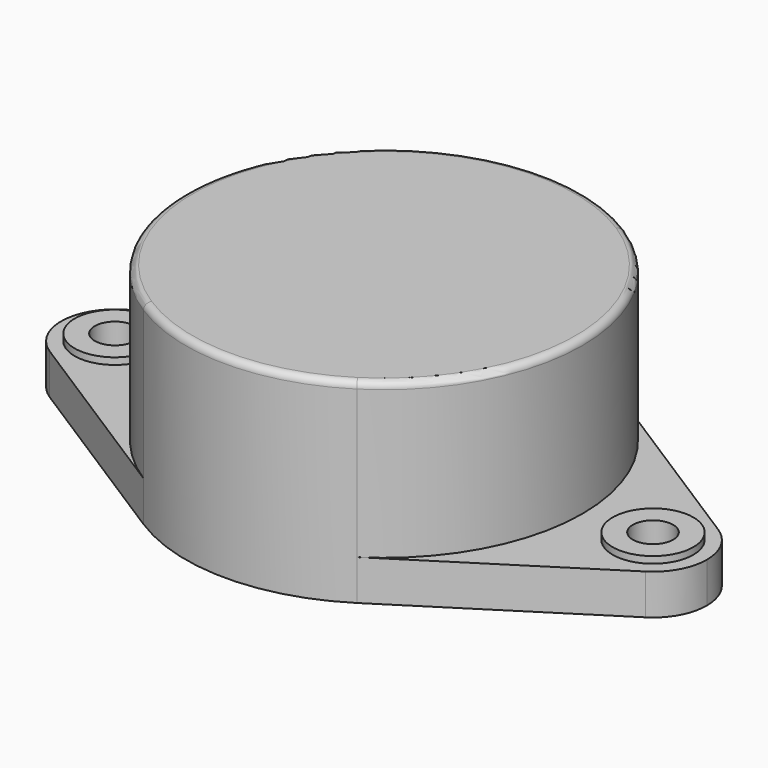
from build123d import *

# Parameters (mm, degrees)
F0_R     = 3
F1_DEPTH = 3
F3_DEPTH = 11.5
F4_R     = 0.5
F6_DEPTH = 3.5
F7_D     = 3


with BuildPart() as f1:
    # F0 (on Top) → F1 (new body)
    with BuildSketch(Plane.XY):
        with BuildLine():
            ThreePointArc((-53.0873338103, 3.9548860426), (-48.0828963467, 9.2999784643), (-46.2654588103, 16.393026337))
            ThreePointArc((-46.2654588103, 16.393026337), (-48.0828963467, 23.4860742098), (-53.0873338103, 28.8311666315))
            ThreePointArc((-53.0873338103, 28.8311666315), (-61.0154588103, 31.143026337), (-68.9435838103, 28.8311666315))
            ThreePointArc((-68.9435838103, 28.8311666315), (-75.7654588103, 16.393026337), (-68.9435838103, 3.9548860426))
            ThreePointArc((-68.9435838103, 3.9548860426), (-61.0154588103, 1.643026337), (-53.0873338103, 3.9548860426))
        make_face()
        with BuildLine():
            ThreePointArc((-68.9435838103, 3.9548860426), (-75.7654588103, 16.393026337), (-68.9435838103, 28.8311666315))
            Line((-68.9435838103, 28.8311666315), (-83.1654588103, 19.7660813321))
            ThreePointArc((-83.1654588103, 19.7660813321), (-79.0919204042, 19.9001619204), (-77.0154588103, 16.393026337))
            ThreePointArc((-77.0154588103, 16.393026337), (-79.0919204042, 12.8858907537), (-83.1654588103, 13.0199713419))
            Line((-83.1654588103, 13.0199713419), (-68.9435838103, 3.9548860426))
        make_face()
        with BuildLine():
            ThreePointArc((-53.0873338103, 28.8311666315), (-48.0828963467, 23.4860742098), (-46.2654588103, 16.393026337))
            ThreePointArc((-46.2654588103, 16.393026337), (-48.0828963467, 9.2999784643), (-53.0873338103, 3.9548860426))
            Line((-53.0873338103, 3.9548860426), (-38.8654588103, 13.0199713419))
            ThreePointArc((-38.8654588103, 13.0199713419), (-45.0154588103, 16.393026337), (-38.8654588103, 19.7660813321))
            Line((-38.8654588103, 19.7660813321), (-53.0873338103, 28.8311666315))
        make_face()
        with BuildLine():
            ThreePointArc((-37.0154588103, 16.393026337), (-37.508323227, 18.3165647432), (-38.8654588103, 19.7660813321))
            ThreePointArc((-38.8654588103, 19.7660813321), (-45.0154588103, 16.393026337), (-38.8654588103, 13.0199713419))
            ThreePointArc((-38.8654588103, 13.0199713419), (-37.508323227, 14.4694879309), (-37.0154588103, 16.393026337))
        make_face()
        with Locations((-41.0154588103, 16.393026337)):
            Circle(F0_R, mode=Mode.SUBTRACT)
        with BuildLine():
            ThreePointArc((-77.0154588103, 16.393026337), (-79.0919204042, 19.9001619204), (-83.1654588103, 19.7660813321))
            ThreePointArc((-83.1654588103, 19.7660813321), (-85.0154588103, 16.393026337), (-83.1654588103, 13.0199713419))
            ThreePointArc((-83.1654588103, 13.0199713419), (-79.0919204042, 12.8858907537), (-77.0154588103, 16.393026337))
        make_face()
        with Locations((-81.0154588103, 16.393026337)):
            Circle(F0_R, mode=Mode.SUBTRACT)
    extrude(amount=F1_DEPTH)

    # F2 (on face) → F3 (join)
    with BuildSketch(Plane.XY.offset(3)):
        with BuildLine():
            ThreePointArc((-53.0873338103, 3.9548860426), (-48.0828963467, 9.2999784643), (-46.2654588103, 16.393026337))
            ThreePointArc((-46.2654588103, 16.393026337), (-48.0828963467, 23.4860742098), (-53.0873338103, 28.8311666315))
            ThreePointArc((-53.0873338103, 28.8311666315), (-61.0154588103, 31.143026337), (-68.9435838103, 28.8311666315))
            ThreePointArc((-68.9435838103, 28.8311666315), (-75.7654588103, 16.393026337), (-68.9435838103, 3.9548860426))
            ThreePointArc((-68.9435838103, 3.9548860426), (-61.0154588103, 1.643026337), (-53.0873338103, 3.9548860426))
        make_face()
    extrude(amount=F3_DEPTH)

    # F4
    f4_edges = [f1.edges().sort_by_distance(p)[0] for p in [
        (-53.087334, 28.831167, 14.5),
    ]]
    fillet(f4_edges, radius=F4_R)

    # F0 (on Top) → F6 (join)
    with BuildSketch(Plane.XY):
        with Locations((-41.0154588103, 16.393026337)):
            Circle(F0_R)
        with Locations((-81.0154588103, 16.393026337)):
            Circle(F0_R)
    extrude(amount=F6_DEPTH)

    # F7 (through all)
    with Locations(Plane(origin=(0, 0, 0), x_dir=(1, 0, 0), z_dir=(0, 0, -1))):
        with Locations((-81.0154588103, -16.393026337), (-41.0154588103, -16.393026337)):
            Hole(F7_D / 2)


solid = f1.part
